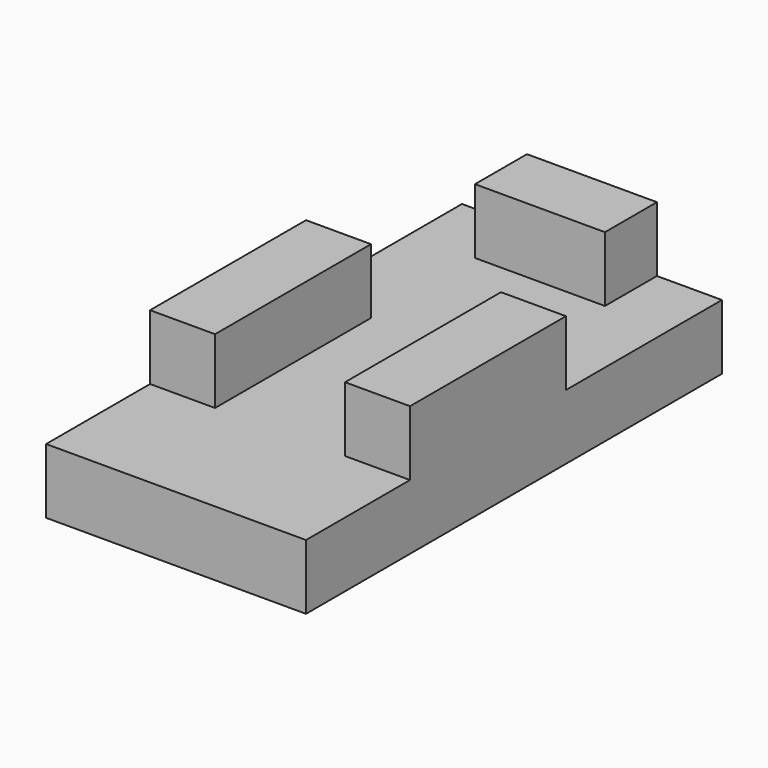
from build123d import *

# Parameters (mm, degrees)
F0_W     = 50.8
F0_H     = 101.6
F1_DEPTH = 12.7
F2_W     = 25.4
F2_H     = 12.7
F2_W_2   = 12.7
F2_H_2   = 38.1
F3_DEPTH = 12.7


with BuildPart() as f1:
    # F0 (on Top) → F1 (new body)
    with BuildSketch(Plane.XY):
        with Locations((-16.032537, 4.16449)):
            Rectangle(F0_W, F0_H)
    extrude(amount=F1_DEPTH)

    # F2 (on face) → F3 (join)
    with BuildSketch(Plane.XY.offset(12.7)):
        with Locations((-16.032537, 48.61449)):
            Rectangle(F2_W, F2_H)
        with Locations((-35.082537, -2.18551)):
            Rectangle(F2_W_2, F2_H_2)
        with Locations((3.017463, -2.18551)):
            Rectangle(F2_W_2, F2_H_2)
    extrude(amount=F3_DEPTH)


solid = f1.part
